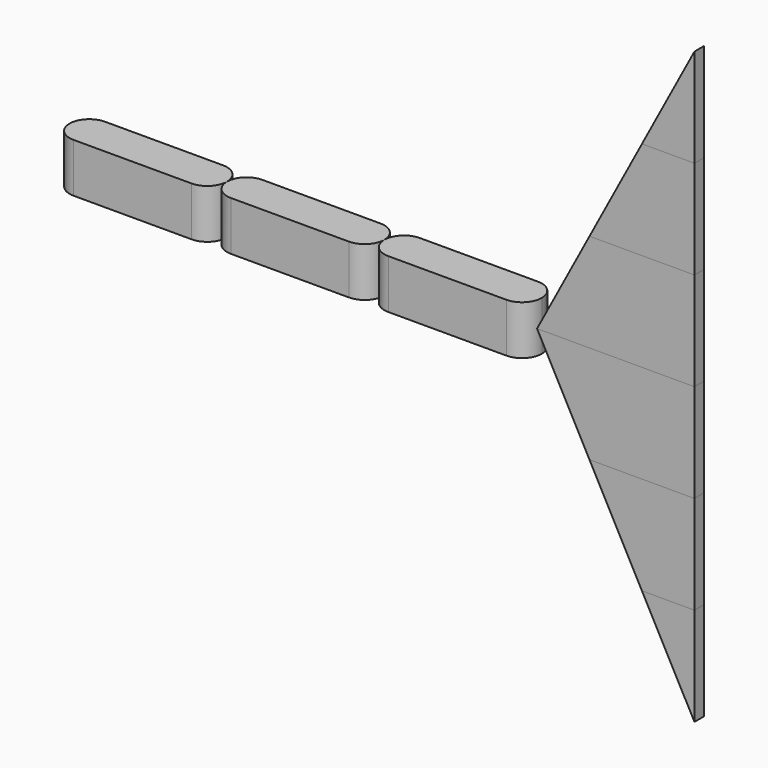
from build123d import *

# Parameters (mm, degrees)
F1_DEPTH = 12.5
F5_DEPTH = 3
F6_DEPTH = 3
F7_DEPTH = 3


with BuildPart() as f1:
    # F0 (on Top) → F1 (new body, symmetric)
    with BuildSketch(Plane.XY):
        with BuildLine():
            Line((0, -10), (0, 10))
            ThreePointArc((0, 10), (-10, 0), (0, -10))
        make_face()
        with BuildLine():
            ThreePointArc((0, -10), (7.071068, -7.071068), (10, 0))
            ThreePointArc((10, 0), (7.071068, 7.071068), (0, 10))
            Line((0, 10), (0, -10))
        make_face()
        with BuildLine():
            ThreePointArc((0, 10), (7.071068, 7.071068), (10, 0))
            ThreePointArc((10, 0), (7.071068, -7.071068), (0, -10))
            Line((0, -10), (60, -10))
            ThreePointArc((60, -10), (50, 0), (60, 10))
            Line((60, 10), (0, 10))
        make_face()
        with BuildLine():
            Line((60, -10), (60, 10))
            ThreePointArc((60, 10), (50, 0), (60, -10))
        make_face()
        with BuildLine():
            ThreePointArc((70, 0), (67.071068, 7.071068), (60, 10))
            Line((60, 10), (60, -10))
            ThreePointArc((60, -10), (67.071068, -7.071068), (70, 0))
        make_face()
    extrude(amount=F1_DEPTH, both=True)


with BuildPart() as f2_1:
    # F2: copy of F1
    add(f1.part.moved(Location((80, 0, 0))))


with BuildPart() as f3_1:
    # F3: copy of F2_1
    add(f2_1.part.moved(Location((80, 0, 0))))


with BuildPart() as f5:
    # F4 (on Front) → F5 (new body, symmetric)
    with BuildSketch(Plane.XZ):
        Polygon((256.666667, 50), (230, 0), (310, 0), (310, 50), align=None)
    extrude(amount=F5_DEPTH, both=True)


with BuildPart() as f6:
    # F4 (on Front) → F6 (new body, symmetric)
    with BuildSketch(Plane.XZ):
        Polygon((283.333333, 100), (256.666667, 50), (310, 50), (310, 100), align=None)
    extrude(amount=F6_DEPTH, both=True)


with BuildPart() as f7:
    # F4 (on Front) → F7 (new body, symmetric)
    with BuildSketch(Plane.XZ):
        Polygon((310, 150), (283.333333, 100), (310, 100), align=None)
    extrude(amount=F7_DEPTH, both=True)


with BuildPart() as f8_1:
    # F8: instance of F5
    add(f5.part.mirror(Plane.XY))


with BuildPart() as f9_1:
    # F9: instance of F6
    add(f6.part.mirror(Plane.XY))


with BuildPart() as f10_1:
    # F10: instance of F7
    add(f7.part.mirror(Plane.XY))


solid = Compound([f1.part, f2_1.part, f3_1.part, f5.part, f6.part, f7.part, f8_1.part, f9_1.part, f10_1.part])
